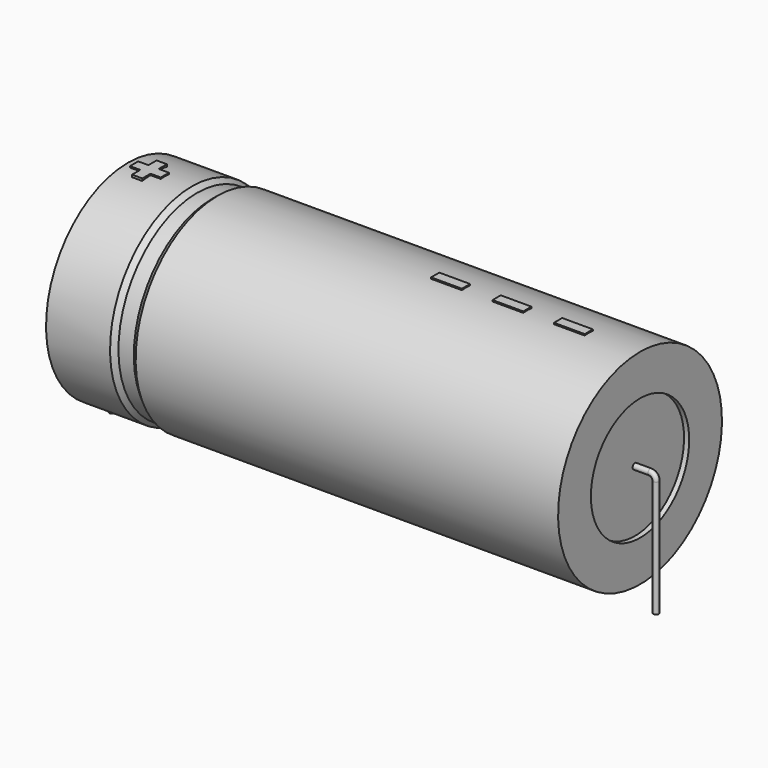
from build123d import *

# Parameters (mm, degrees)
SKETCH_R    = 0.45
SKETCH004_W = 4.8
SKETCH004_H = 1.6
PAD_DEPTH   = 16.16


with BuildPart() as sweep_body:
    # Sweep: sweep along a path in Sketch001
    with BuildLine(Plane.XZ) as sweep_path:
        Line((0, -3), (0, 15.2))
        ThreePointArc((0, 15.2), (0.263606, 15.836399), (0.900007, 16.1))
        Line((0.900007, 16.1), (84.1, 16.1))
        ThreePointArc((84.1, 16.1), (84.736396, 15.836396), (85, 15.2))
        Line((85, 15.2), (85, -3))
    # Sketch → Sweep (sweep)
    with BuildSketch(Plane.XY.offset(-2)):
        Circle(SKETCH_R)
    sweep(path=sweep_path.line)


with BuildPart() as revolution:
    # Sketch002 → Revolution (revolve)
    with BuildSketch(Plane.XZ):
        Polygon((2.5, 32.1), (2.5, 25.7), (82.5, 25.7), (82.5, 32.1), (16.5, 32.1), (15.7, 31.46), (13.3, 31.46), (12.5, 32.1), align=None)
    revolve(axis=Axis((6.97588, 0, 16.1), (1, 0, 0)))


with BuildPart() as revolution001:
    # Sketch003 → Revolution001 (revolve)
    with BuildSketch(Plane.XZ):
        Polygon((3.3, 31.46), (7.3, 31.46), (7.3, 17.7), (77.7, 17.7), (77.7, 31.46), (81.7, 31.46), (81.7, 16.1), (3.3, 16.1), align=None)
    revolve(axis=Axis((6.97588, 0, 16.1), (1, 0, 0)))


with BuildPart() as pad:
    # Sketch004 → Pad (new body)
    with BuildSketch(Plane.XY.offset(16.1)):
        with Locations((72.1, 0)):
            Rectangle(SKETCH004_W, SKETCH004_H)
        with Locations((62.5, 0)):
            Rectangle(SKETCH004_W, SKETCH004_H)
        with Locations((52.9, 0)):
            Rectangle(SKETCH004_W, SKETCH004_H)
        Polygon((5.06, 0.8), (3.46, 0.8), (3.46, -0.8), (5.06, -0.8), (5.06, -2.4), (6.66, -2.4), (6.66, -0.8), (8.26, -0.8), (8.26, 0.8), (6.66, 0.8), (6.66, 2.4), (5.06, 2.4), align=None)
    extrude(amount=PAD_DEPTH)


solid = Compound([sweep_body.part, revolution.part, revolution001.part, pad.part])
